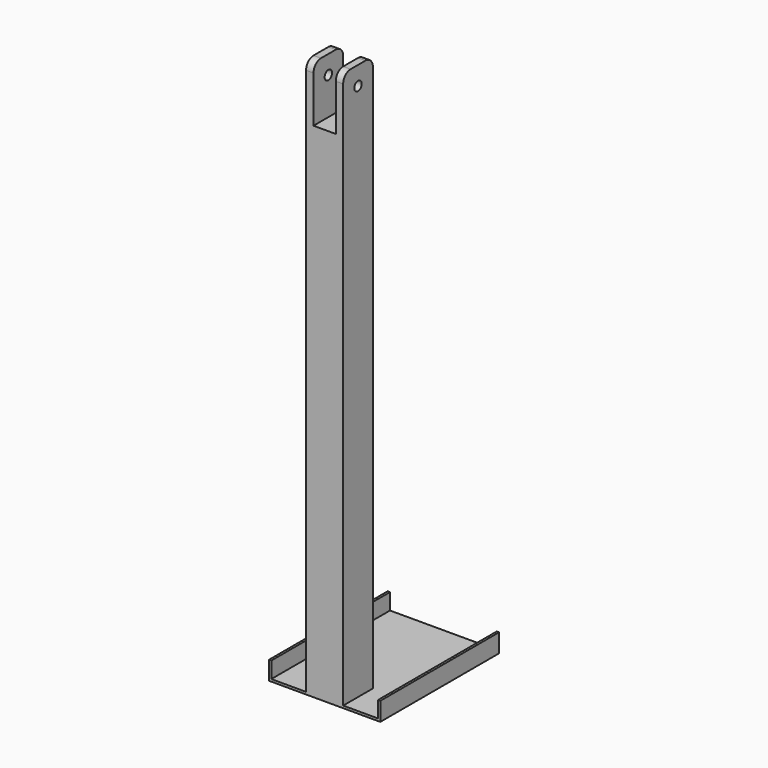
from build123d import *

# Parameters (mm, degrees)
F1_DEPTH = 101.6
F2_W     = 50.8
F2_H     = 50.8
F3_DEPTH = 762
F4_R     = 6.35
F5_DEPTH = 101.601
F6_W     = 30.48
F6_H     = 76.2
F7_DEPTH = 203.201
F8_R     = 12.7


with BuildPart() as f1:
    # F0 (on Front) → F1 (new body, symmetric)
    with BuildSketch(Plane.XZ):
        Polygon((-73.025, 25.4), (-76.2, 25.4), (-76.2, 0), (76.2, 0), (76.2, 25.4), (73.025, 25.4), (73.025, 3.175), (-73.025, 3.175), align=None)
    extrude(amount=F1_DEPTH, both=True)

    # F2 (on face) → F3 (join)
    with BuildSketch(Plane.XY.offset(3.175)):
        with Locations((0, -76.2)):
            Rectangle(F2_W, F2_H)
    extrude(amount=F3_DEPTH)

    # F4 (on face) → F5 (cut, through all)
    with BuildSketch(Plane.YZ.offset(25.4)):
        with Locations((-76.2, 739.775)):
            Circle(F4_R)
    extrude(amount=-F5_DEPTH, mode=Mode.SUBTRACT)

    # F6 (on face) → F7 (cut, through all)
    with BuildSketch(Plane.XZ.offset(101.6)):
        with Locations((0, 727.075)):
            Rectangle(F6_W, F6_H)
    extrude(amount=-F7_DEPTH, mode=Mode.SUBTRACT)

    # F8
    f8_edges = [f1.edges().sort_by_distance(p)[0] for p in [
        (-20.32, -101.6, 765.175),
        (20.32, -101.6, 765.175),
        (-20.32, -50.8, 765.175),
        (20.32, -50.8, 765.175),
    ]]
    fillet(f8_edges, radius=F8_R)


solid = f1.part
